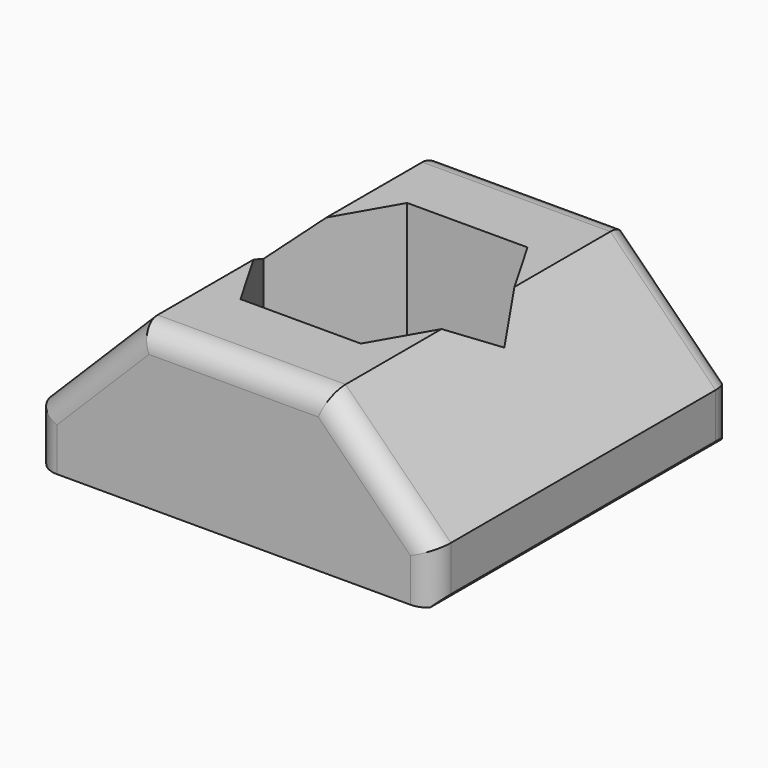
from build123d import *

# Parameters (mm, degrees)
PAD_DEPTH       = 10
POCKET_DEPTH    = 3.1
SKETCH002_R     = 1.6
POCKET001_DEPTH = 4.201
CHAMFER_SIZE    = 0.4
CHAMFER001_SIZE = 0.2
FILLET_R        = 0.6


with BuildPart() as part:
    # Sketch → Pad (new body)
    with BuildSketch(Plane.XZ):
        Polygon((-5.3, 0), (5.3, 0), (5.3, 1.4), (2.5, 4.2), (-2.5, 4.2), (-5.3, 1.4), align=None)
    extrude(amount=PAD_DEPTH)

    # Sketch001 → Pocket (cut)
    with BuildSketch(Plane(origin=(0, 0, 4.2), x_dir=(-1, 0, 0), z_dir=(0, 0, 1))):
        Polygon((1.6, 2.228719), (3.2, 5), (1.6, 7.771281), (-1.6, 7.771281), (-3.2, 5), (-1.6, 2.228719), align=None)
    extrude(amount=-POCKET_DEPTH, mode=Mode.SUBTRACT)

    # Sketch002 → Pocket001 (cut, through all)
    with BuildSketch(Plane(origin=(0, 0, 0), x_dir=(1, 0, 0), z_dir=(0, 0, -1))):
        with Locations((0, 5)):
            Circle(SKETCH002_R)
    extrude(amount=-POCKET001_DEPTH, mode=Mode.SUBTRACT)

    # Chamfer
    chamfer_edges = [part.edges().sort_by_distance(p)[0] for p in [
        (-1.6, -5, 0),
    ]]
    chamfer(chamfer_edges, length=CHAMFER_SIZE)

    # Chamfer001
    chamfer001_edges = [part.edges().sort_by_distance(p)[0] for p in [
        (-5.3, -5, 0),
        (5.3, -5, 0),
    ]]
    chamfer(chamfer001_edges, length=CHAMFER001_SIZE)

    # Fillet
    fillet_edges = [part.edges().sort_by_distance(p)[0] for p in [
        (-5.3, 0, 0.8),
        (5.3, 0, 0.8),
        (-3.9, 0, 2.8),
        (3.9, 0, 2.8),
        (0, 0, 4.2),
        (-5.3, -10, 0.8),
        (5.3, -10, 0.8),
        (-3.9, -10, 2.8),
        (3.9, -10, 2.8),
        (0, -10, 4.2),
    ]]
    fillet(fillet_edges, radius=FILLET_R)


solid = part.part
